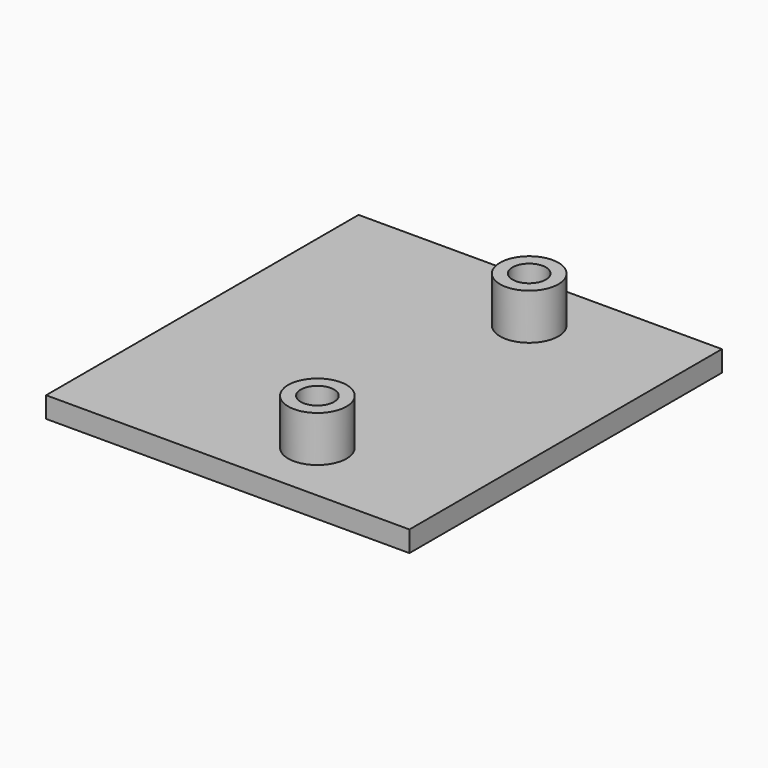
from build123d import *

# Parameters (mm, degrees)
F0_W     = 34.86
F0_H     = 37.47
F0_R     = 2.8
F0_W_2   = 4.5
F0_H_2   = 6.7
F0_R_2   = 1.6
F1_DEPTH = 2
F2_DEPTH = 6.4


with BuildPart() as f1:
    # F0 (on Top) → F1 (new body)
    with BuildSketch(Plane.XY):
        Rectangle(F0_W, F0_H)
        Polygon((15.03, 16.335), (15.03, -16.335), (-15.03, -16.335), (-15.03, -14.065), (-15.03, 3.565), (-15.03, 16.335), align=None, mode=Mode.SUBTRACT)
        Polygon((-15.03, -16.335), (15.03, -16.335), (15.03, 16.335), (-15.03, 16.335), (-15.03, 3.565), (-8.03, 3.565), (-8.03, -5.735), (-10.53, -5.735), (-10.53, -14.065), (-14.03, -14.065), (-15.03, -14.065), align=None)
        with Locations((3.77, -12.7)):
            Circle(F0_R, mode=Mode.SUBTRACT)
        with Locations((11.22, -8.785)):
            Rectangle(F0_W_2, F0_H_2, mode=Mode.SUBTRACT)
        with Locations((11.22, 0.235)):
            Rectangle(F0_W_2, F0_H_2, mode=Mode.SUBTRACT)
        with Locations((11.22, 9.185)):
            Rectangle(F0_W_2, F0_H_2, mode=Mode.SUBTRACT)
        with Locations((3.77, 12.7)):
            Circle(F0_R, mode=Mode.SUBTRACT)
        Polygon((-15.03, 3.565), (-15.03, -14.065), (-14.03, -14.065), (-10.53, -14.065), (-10.53, -5.735), (-8.03, -5.735), (-8.03, 3.565), align=None)
        with Locations((3.77, 12.7)):
            Circle(F0_R)
        with Locations((3.77, 12.7)):
            Circle(F0_R_2, mode=Mode.SUBTRACT)
        with Locations((3.77, -12.7)):
            Circle(F0_R)
        with Locations((3.77, -12.7)):
            Circle(F0_R_2, mode=Mode.SUBTRACT)
        with Locations((11.22, 9.185)):
            Rectangle(F0_W_2, F0_H_2)
        with Locations((11.22, 0.235)):
            Rectangle(F0_W_2, F0_H_2)
        with Locations((11.22, -8.785)):
            Rectangle(F0_W_2, F0_H_2)
    extrude(amount=F1_DEPTH)

    # F0 (on Top) → F2 (join)
    with BuildSketch(Plane.XY):
        with Locations((3.77, 12.7)):
            Circle(F0_R)
        with Locations((3.77, 12.7)):
            Circle(F0_R_2, mode=Mode.SUBTRACT)
        with Locations((3.77, -12.7)):
            Circle(F0_R)
        with Locations((3.77, -12.7)):
            Circle(F0_R_2, mode=Mode.SUBTRACT)
    extrude(amount=F2_DEPTH)


solid = f1.part
